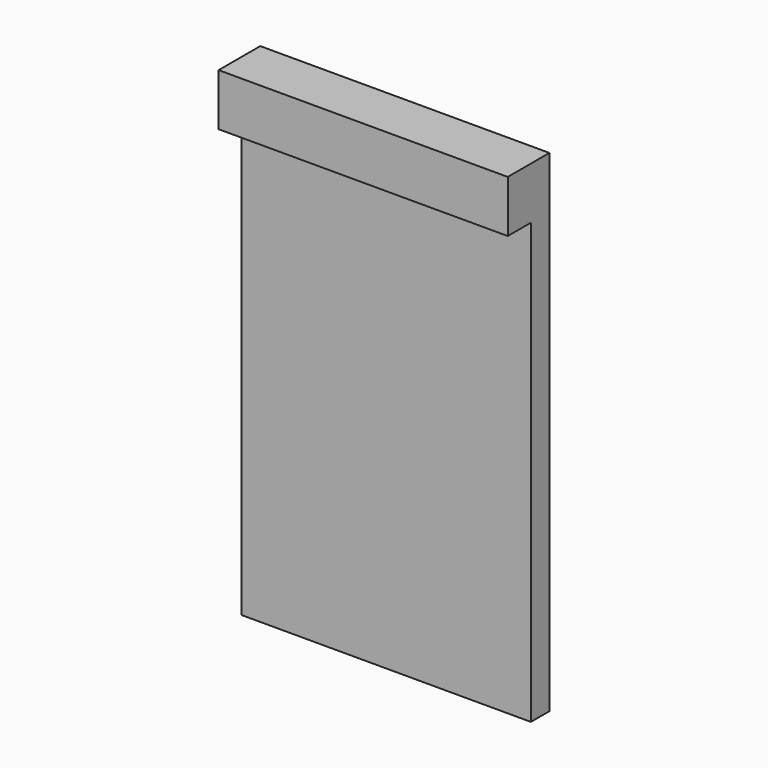
from build123d import *

# Parameters (mm, degrees)
BOX021_W     = 10
BOX021_H     = 1.8
BOX021_DEPTH = 1.8
BOX020_W     = 10
BOX020_H     = 0.8
BOX020_DEPTH = 17


with BuildPart() as cube021:
    # Box021 → Box021 (new body)
    with BuildSketch(Plane(origin=(0, 38.2, 15.2), x_dir=(1, 0, 0), z_dir=(0, 0, 1))):
        with Locations((5, 0.9)):
            Rectangle(BOX021_W, BOX021_H)
    extrude(amount=BOX021_DEPTH)


with BuildPart() as fusion006002003:
    # Box020 → Box020 (new body)
    with BuildSketch(Plane(origin=(0, 39.2, 0), x_dir=(1, 0, 0), z_dir=(0, 0, 1))):
        with Locations((5, 0.4)):
            Rectangle(BOX020_W, BOX020_H)
    extrude(amount=BOX020_DEPTH)

    # Fusion006002003: union Cube021
    add(cube021.part)


solid = fusion006002003.part
